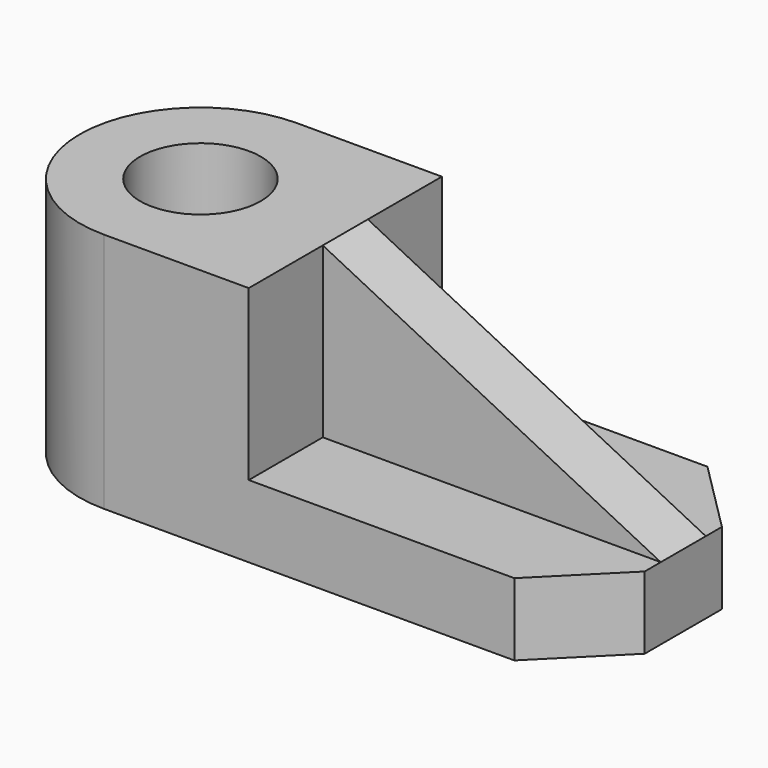
from build123d import *

# Parameters (mm, degrees)
F0_R     = 190.5
F1_DEPTH = 228.6
F2_R     = 190.5
F3_DEPTH = 533.4
F6_DEPTH = 88.9


with BuildPart() as f1:
    # F0 (on Top) → F1 (new body)
    with BuildSketch(Plane.XY):
        with BuildLine():
            Line((381, 0), (1676.4, 0))
            Line((1676.4, 0), (1905, 228.6))
            Line((1905, 228.6), (1905, 533.4))
            Line((1905, 533.4), (1676.4, 762))
            Line((1676.4, 762), (381, 762))
            ThreePointArc((381, 762), (650.4076836321, 650.4076836321), (762, 381))
            ThreePointArc((762, 381), (650.4076836321, 111.5923163679), (381, 0))
        make_face()
        with BuildLine():
            ThreePointArc((0, 381), (111.5923163679, 111.5923163679), (381, 0))
            ThreePointArc((381, 0), (650.4076836321, 111.5923163679), (762, 381))
            ThreePointArc((762, 381), (650.4076836321, 650.4076836321), (381, 762))
            ThreePointArc((381, 762), (111.5923163679, 650.4076836321), (0, 381))
        make_face()
        with Locations((381, 381)):
            Circle(F0_R, mode=Mode.SUBTRACT)
    extrude(amount=F1_DEPTH)

    # F2 (on face) → F3 (join)
    with BuildSketch(Plane.XY.offset(228.6)):
        with BuildLine():
            Line((838.2, 0), (838.2, 762))
            Line((838.2, 762), (381, 762))
            ThreePointArc((381, 762), (0, 381), (381, 0))
            Line((381, 0), (838.2, 0))
        make_face()
        with Locations((381, 381)):
            Circle(F2_R, mode=Mode.SUBTRACT)
    extrude(amount=F3_DEPTH)

    # F5 (on mid) → F6 (join, symmetric)
    with BuildSketch(Plane.XZ.offset(-381)):
        Polygon((838.2, 762), (838.2, 228.6), (1676.4, 228.6), (1905, 228.6), align=None)
    extrude(amount=F6_DEPTH, both=True)


solid = f1.part
